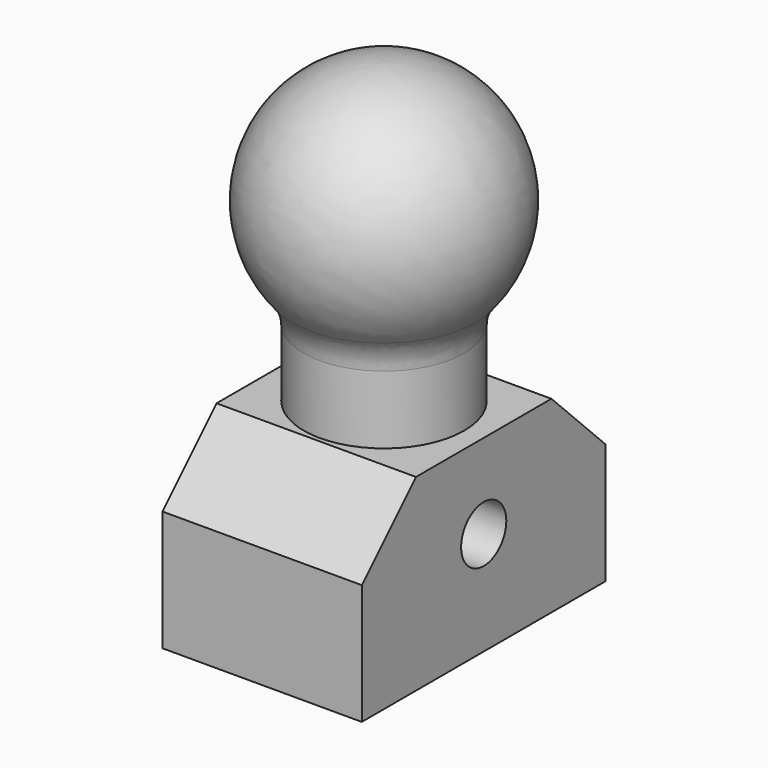
from build123d import *

# Parameters (mm, degrees)
F2_W          = 10.6
F2_H          = 16.2
F3_DEPTH      = 1
F3_DEPTH_BACK = 9
F4_R          = 1.5
F5_DEPTH      = 10.6
F6_SIZE       = 3.6
F7_R          = 2.5


with BuildPart() as f1:
    # F0 (on Front) → F1 (revolve)
    with BuildSketch(Plane.XZ):
        with BuildLine():
            Line((4.264979, 0), (4.264979, 5.628212))
            ThreePointArc((4.264979, 5.628212), (5.979107, 12.682604), (0, 16.8))
            Line((0, 16.8), (0, 0))
            Line((0, 0), (4.264979, 0))
        make_face()
    revolve(axis=Axis((0, 0, 30.748535), (0, 0, 1)))

    # F2 (on Top) → F3 (join, two sides)
    with BuildSketch(Plane.XY) as f3_sk:
        Rectangle(F2_W, F2_H)
    extrude(amount=F3_DEPTH)
    extrude(f3_sk.sketch, amount=-F3_DEPTH_BACK)

    # F4 (on face) → F5 (cut, through all)
    with BuildSketch(Plane.YZ.offset(5.3)):
        with Locations((0, -3.5)):
            Circle(F4_R)
    extrude(amount=-F5_DEPTH, mode=Mode.SUBTRACT)

    # F6
    f6_edges = [f1.edges().sort_by_distance(p)[0] for p in [
        (0, 8.1, 1),
        (0, -8.1, 1),
    ]]
    chamfer(f6_edges, length=F6_SIZE)

    # F7
    f7_edges = [f1.edges().sort_by_distance(p)[0] for p in [
        (-4.264979, 0, 5.628212),
    ]]
    fillet(f7_edges, radius=F7_R)


solid = f1.part
